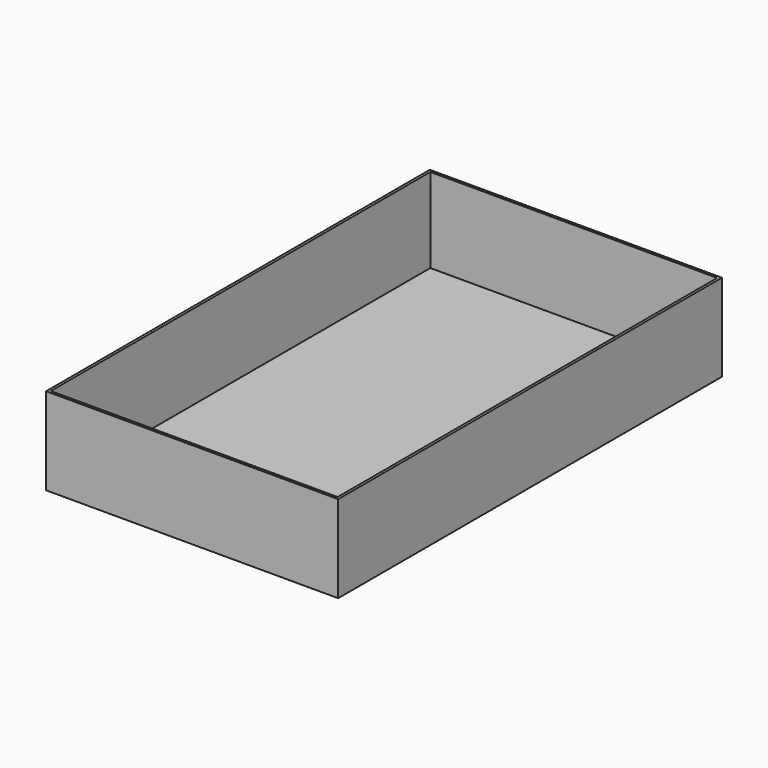
from build123d import *

# Parameters (mm, degrees)
SKETCH_W     = 134
SKETCH_H     = 220
PAD_DEPTH    = 40
SKETCH001_W  = 131.6
SKETCH001_H  = 217.6
POCKET_DEPTH = 38.8


with BuildPart() as part:
    # Sketch → Pad (new body)
    with BuildSketch(Plane.XY):
        Rectangle(SKETCH_W, SKETCH_H)
    extrude(amount=PAD_DEPTH)

    # Sketch001 (on DatumPlane) → Pocket (cut)
    with BuildSketch(Plane.XY.offset(40)):
        Rectangle(SKETCH001_W, SKETCH001_H)
    extrude(amount=-POCKET_DEPTH, mode=Mode.SUBTRACT)


solid = part.part
